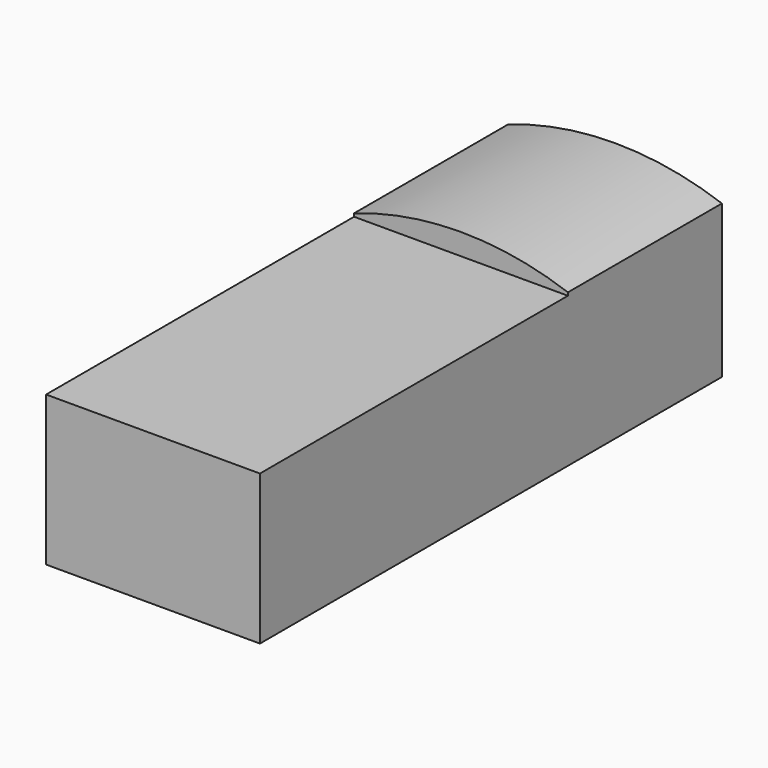
from build123d import *

# Parameters (mm, degrees)
BOX001_W            = 10
BOX001_H            = 18
BOX001_DEPTH        = 10
BOX_W               = 10
BOX_H               = 27
BOX_DEPTH           = 8
CYLINDER_R          = 15
CYLINDER_DEPTH      = 40
CYLINDER_ROLL_ANGLE = 90


with BuildPart() as flat_top:
    # Box001 → Box001 (new body)
    with BuildSketch(Plane.XY.offset(7)):
        with Locations((5, 9)):
            Rectangle(BOX001_W, BOX001_H)
    extrude(amount=BOX001_DEPTH)


with BuildPart() as pin:
    # Box → Box (new body)
    with BuildSketch(Plane.XY):
        with Locations((5, 13.5)):
            Rectangle(BOX_W, BOX_H)
    extrude(amount=BOX_DEPTH)


with BuildPart() as cut:
    # Cylinder → Cylinder (new body)
    with BuildSketch(Plane.XY):
        Circle(CYLINDER_R)
    extrude(amount=CYLINDER_DEPTH)


with BuildPart() as cut_1:
    # Cylinder roll: moved
    add(cut.part.rotate(Axis((0, 0, 0), (1, 0, 0)), CYLINDER_ROLL_ANGLE))


with BuildPart() as cut_2:
    # Cylinder placement: moved
    add(cut_1.part.moved(Location((5, 35, -7))))

    # Common: intersect pin
    add(pin.part, mode=Mode.INTERSECT)

    # Cut: cut flat_top
    add(flat_top.part, mode=Mode.SUBTRACT)


with BuildPart() as cut_3:
    # Cut placement: moved
    add(cut_2.part.moved(Location((0, 11, 0))))


solid = cut_3.part
